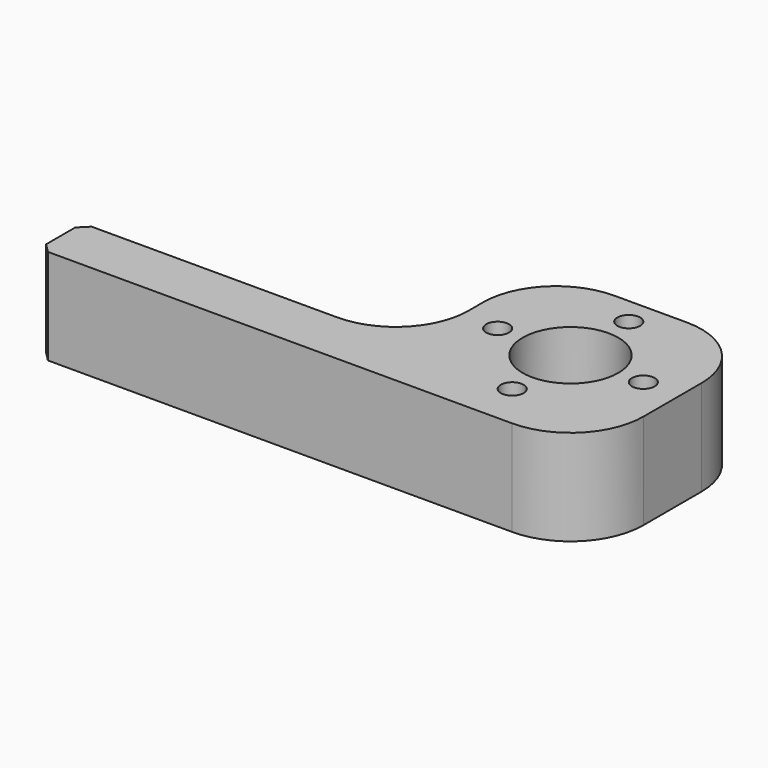
from build123d import *

# Parameters (mm, degrees)
F0_R     = 1.25
F0_R_2   = 5.25
F1_DEPTH = 10.5
F2_R     = 8
F3_SIZE  = 1


with BuildPart() as f1:
    # F0 (on Top) → F1 (new body)
    with BuildSketch(Plane.XY):
        Polygon((-12, 11), (-12, -7), (-48, -7), (-48, -13), (12, -13), (12, 11), align=None)
        with Locations((0, -8)):
            Circle(F0_R, mode=Mode.SUBTRACT)
        with Locations((-8, 0)):
            Circle(F0_R, mode=Mode.SUBTRACT)
        Circle(F0_R_2, mode=Mode.SUBTRACT)
        with Locations((8, 0)):
            Circle(F0_R, mode=Mode.SUBTRACT)
        with Locations((0, 8)):
            Circle(F0_R, mode=Mode.SUBTRACT)
    extrude(amount=F1_DEPTH)

    # F2
    f2_edges = [f1.edges().sort_by_distance(p)[0] for p in [
        (12, -13, 5.25),
        (12, 11, 5.25),
        (-12, 11, 5.25),
        (-12, -7, 5.25),
    ]]
    fillet(f2_edges, radius=F2_R)

    # F3
    f3_edges = [f1.edges().sort_by_distance(p)[0] for p in [
        (-48, -13, 5.25),
        (-48, -7, 5.25),
    ]]
    chamfer(f3_edges, length=F3_SIZE)


solid = f1.part
